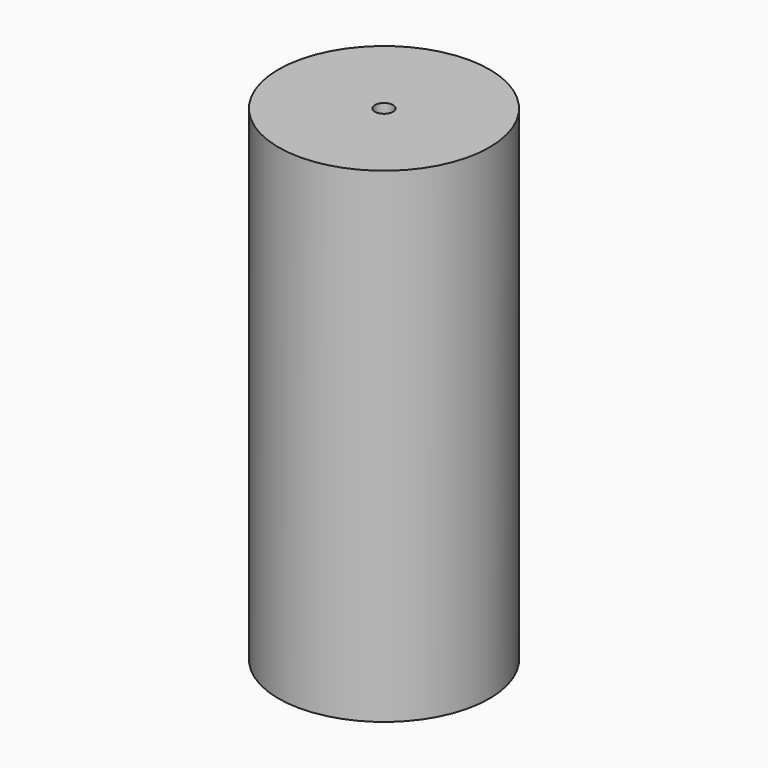
from build123d import *

# Parameters (mm, degrees)
F0_R     = 127
F1_DEPTH = 292.1
F3_D     = 22
F3_DEPTH = 127
F3_TIP   = 6.6094668093


with BuildPart() as f1:
    # F0 (on Top) → F1 (new body, symmetric)
    with BuildSketch(Plane.XY):
        Circle(F0_R)
    extrude(amount=F1_DEPTH, both=True)

    # F3
    with Locations(Plane.XY.offset(292.1)):
        with Locations((0, 0)):
            Hole(F3_D / 2, depth=F3_DEPTH)
            with Locations((0, 0, -(F3_DEPTH + F3_TIP / 2))):  # 118° drill point
                Cone(0, F3_D / 2, F3_TIP, mode=Mode.SUBTRACT)


solid = f1.part
